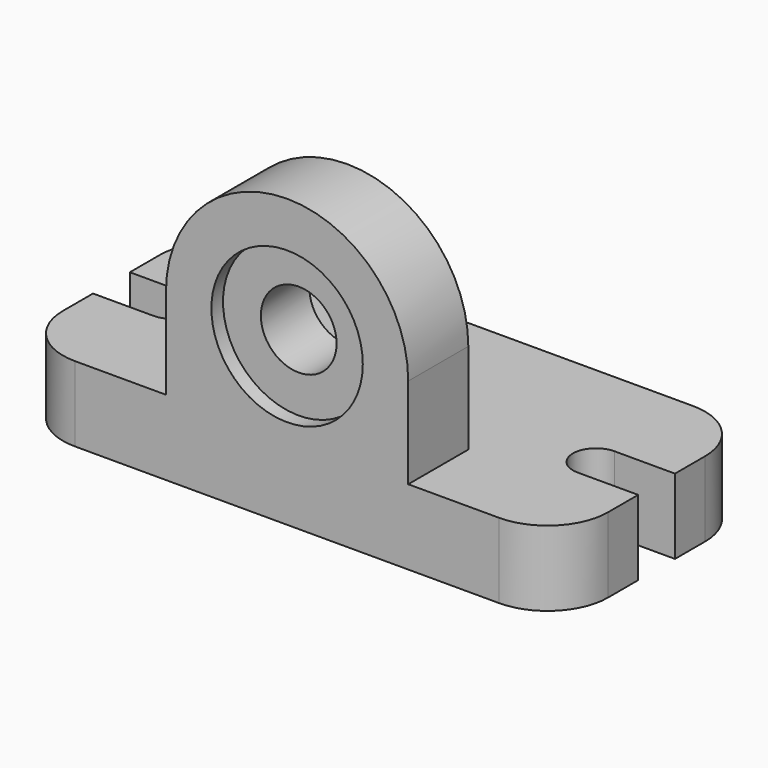
from build123d import *

# Parameters (mm, degrees)
F0_W     = 114.3
F0_H     = 50.8
F1_DEPTH = 15.748
F2_R     = 15.875
F2_R_2   = 7.9375
F3_DEPTH = 15.748
F4_DEPTH = 3.048
F5_DEPTH = 50.801
F7_DEPTH = 15.749
F8_R     = 12.7


with BuildPart() as f1:
    # F0 (on Top) → F1 (new body)
    with BuildSketch(Plane.XY):
        Rectangle(F0_W, F0_H)
        Rectangle(F0_W, F0_H)
    extrude(amount=F1_DEPTH)

    # F2 (on face) → F3 (join)
    with BuildSketch(Plane.XZ.offset(25.4)):
        with BuildLine():
            Line((25.4, 15.748), (25.4, 34.798))
            ThreePointArc((25.4, 34.798), (0, 60.198), (-25.4, 34.798))
            Line((-25.4, 34.798), (-25.4, 15.748))
            Line((-25.4, 15.748), (25.4, 15.748))
        make_face()
        with Locations((0, 34.798)):
            Circle(F2_R, mode=Mode.SUBTRACT)
        with Locations((0, 34.798)):
            Circle(F2_R_2)
        with Locations((0, 34.798)):
            Circle(F2_R)
        with Locations((0, 34.798)):
            Circle(F2_R_2, mode=Mode.SUBTRACT)
    extrude(amount=-F3_DEPTH)

    # F2 (on face) → F4 (cut)
    with BuildSketch(Plane.XZ.offset(25.4)):
        with Locations((0, 34.798)):
            Circle(F2_R)
        with Locations((0, 34.798)):
            Circle(F2_R_2, mode=Mode.SUBTRACT)
    extrude(amount=-F4_DEPTH, mode=Mode.SUBTRACT)

    # F2 (on face) → F5 (cut, through all)
    with BuildSketch(Plane.XZ.offset(25.4)):
        with Locations((0, 34.798)):
            Circle(F2_R_2)
    extrude(amount=-F5_DEPTH, mode=Mode.SUBTRACT)

    # F6 (on face) → F7 (cut, through all)
    with BuildSketch(Plane.XY.offset(15.748)):
        with BuildLine():
            Line((-57.15, -4.826), (-44.45, -4.826))
            ThreePointArc((-44.45, -4.826), (-39.624, 0), (-44.45, 4.826))
            Line((-44.45, 4.826), (-57.15, 4.826))
            Line((-57.15, 4.826), (-57.15, -4.826))
        make_face()
        with BuildLine():
            Line((57.15, -4.826), (57.15, 4.826))
            Line((57.15, 4.826), (44.45, 4.826))
            ThreePointArc((44.45, 4.826), (39.624, 0), (44.45, -4.826))
            Line((44.45, -4.826), (57.15, -4.826))
        make_face()
    extrude(amount=-F7_DEPTH, mode=Mode.SUBTRACT)

    # F8
    f8_edges = [f1.edges().sort_by_distance(p)[0] for p in [
        (57.15, -25.4, 7.874),
        (57.15, 25.4, 7.874),
        (-57.15, -25.4, 7.874),
        (-57.15, 25.4, 7.874),
    ]]
    fillet(f8_edges, radius=F8_R)


solid = f1.part
